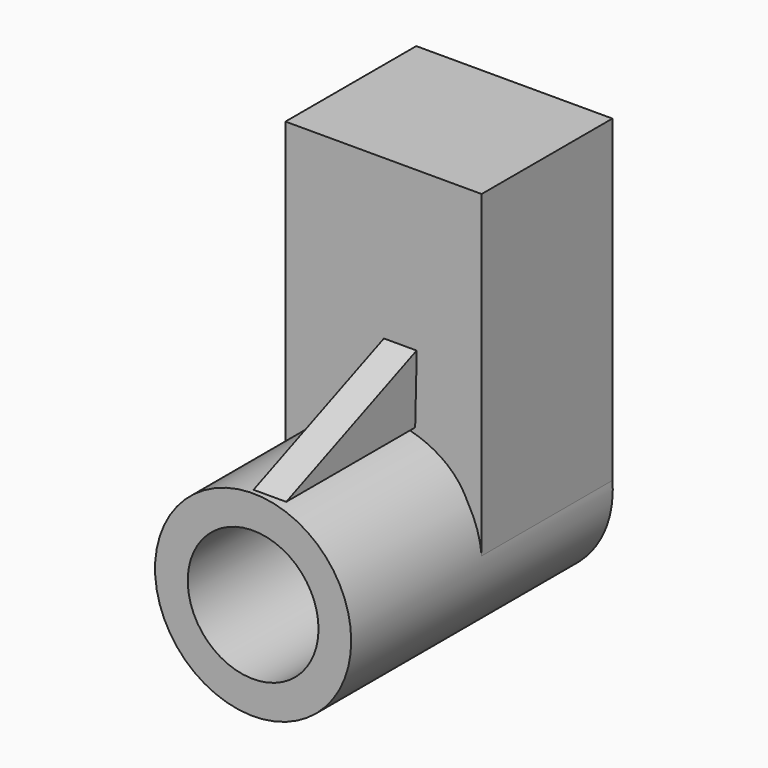
from build123d import *

# Parameters (mm, degrees)
F0_R     = 30
F0_R_2   = 20
F1_DEPTH = 100
F3_DEPTH = 50
F5_DEPTH = 10


with BuildPart() as f1:
    # F0 (on Front) → F1 (new body)
    with BuildSketch(Plane.XZ):
        Circle(F0_R)
        Circle(F0_R_2, mode=Mode.SUBTRACT)
    extrude(amount=F1_DEPTH)

    # F2 (on Front) → F3 (join)
    with BuildSketch(Plane.XZ):
        with BuildLine():
            Line((-30.1086945207, 100), (-30.1086945207, 0))
            add(Edge.make_bspline(
                [(-30.1086945207, 0), (-28.1945433239, 8.0804869026), (-24.3908970229, 24.1373763311), (-0.0363134271, 33.4382771528), (25.4775085898, 23.5551805153), (28.4355133491, 7.7691491651), (29.8913054793, 0)],
                knots=[0, 0, 0, 0, 0.2515656937, 0.4998909813, 0.7538696409, 1, 1, 1, 1], degree=3))
            Line((29.8913054793, 0), (29.8913054793, 100))
            Line((29.8913054793, 100), (-30.1086945207, 100))
        make_face()
    extrude(amount=F3_DEPTH)

    # F4 (on Right) → F5 (join)
    with BuildSketch(Plane.YZ):
        Polygon((-99.8394265771, 30.9073068202), (-50.5473278463, 30.9073068202), (-49.9311797321, 51.420763135), align=None)
    extrude(amount=F5_DEPTH)


solid = f1.part
